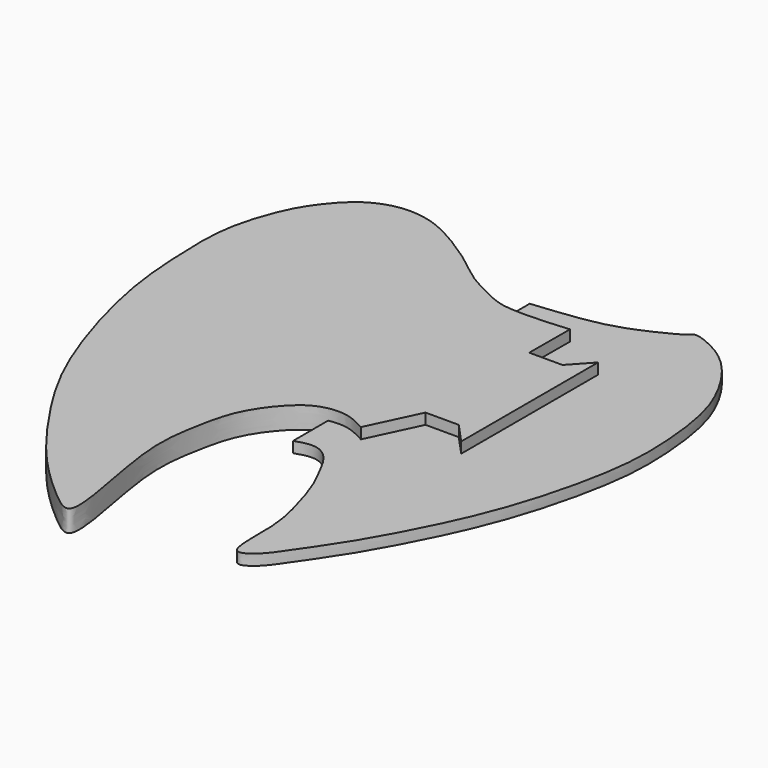
from build123d import *

# Parameters (mm, degrees)
F2_DEPTH = 60
F3_DEPTH = 30


with BuildPart() as f2:
    # F0 (on Top) → F2 (new body)
    with BuildSketch(Plane.XY):
        with BuildLine():
            add(Edge.make_bspline(
                [(131.964340806, -83.234205842), (112.4538179303, -72.6751942263), (73.885742882, -51.802316804), (6.6573498636, -58.2141301705), (-46.4500485441, -87.8764421769), (-125.7671283838, -184.7009892826), (-150.753615895, -312.3758108425), (-176.5027036894, -463.2075093139), (-81.9456959989, -821.4126293537), (-189.6099517072, -740.4886502482), (-314.0159435827, -624.6397739889), (-433.218377131, -459.6482344116), (-564.0125904776, -251.6722391321), (-669.9347276011, 101.2110734438), (-680.0971148701, 309.8933685202), (-684.623487114, 464.8610065534), (-633.8892927829, 612.9442668309), (-589.0316859487, 680.1379113439), (-530.4831886517, 746.0433494352), (-445.9428756901, 779.6145410921), (-355.0177935995, 771.0310110749), (-270.0585967672, 728.5553661642), (-170.6298828838, 662.440048789), (-120.1161795657, 615.3442727908), (-25.9684608204, 567.6027983822), (37.9641117324, 542.8716075743), (198.1576285988, 556.9305593796), (199.2047280073, 557.3984384537)],
                knots=[0, 0, 0, 0, 0.0284473785, 0.0562343017, 0.0833554414, 0.1218422025, 0.1608429216, 0.2080108985, 0.268200819, 0.2954073655, 0.3428264366, 0.3928116183, 0.4484804628, 0.5159415127, 0.5669113925, 0.6104524856, 0.6536826005, 0.6853450241, 0.7176649222, 0.7506548505, 0.7835002115, 0.8181411331, 0.8561854202, 0.8860663083, 0.9204959736, 0.9537537051, 0.9959928607, 0.9959928607, 0.9959928607, 0.9959928607], degree=3))
            Line((131.964340806, -83.234205842), (198.606202998, 57.378873229))
            Line((198.606202998, 57.378873229), (290.9095287323, 57.378873229))
            Line((290.9095287323, 57.378873229), (343.5277044773, 0))
            Line((343.5277044773, 0), (343.5277044773, 474.1864259603))
            Line((343.5277044773, 474.1864259603), (290.9095287323, 416.8075527312))
            Line((290.9095287323, 416.8075527312), (198.606202998, 416.8075527312))
            Line((198.606202998, 416.8075527312), (199.2047280073, 557.3984384537))
        make_face()
    extrude(amount=F2_DEPTH)

    # F1 (on Top) → F3 (join)
    with BuildSketch(Plane.XY):
        with BuildLine():
            Line((19.9452415109, 641.7627334595), (21.7786151916, -180.4992258549))
            add(Edge.make_bspline(
                [(21.7786151916, -180.4992258549), (31.2222558615, -177.2879187469), (50.9015697622, -170.5959741021), (89.3621517005, -169.5033895879), (128.4094116449, -202.0526555629), (156.3968814778, -258.858654579), (188.8164116545, -319.6990727343), (226.1285735268, -443.8866176084), (240.3894674181, -530.7085325997), (231.2640191741, -681.5596012107), (295.2267779567, -642.8167081608), (330.0615725395, -593.96734621), (399.4234817804, -493.0324326547), (451.6935825017, -406.9120486777), (551.113629486, -215.1607208755), (615.577981555, -19.691129658), (652.6698182286, 163.3624028905), (657.0150289474, 287.5477368073), (644.5556818748, 427.3078052831), (615.723904699, 541.5703928589), (543.9989786181, 664.0431548537), (466.3552314687, 729.1406287211), (389.2240786804, 757.8258506854), (382.7784583141, 742.9975025386), (341.0077761174, 719.8448377409), (266.4166670863, 684.6625269007), (178.8171755833, 657.5172915552), (77.6544977528, 647.4854801197), (19.9452415109, 641.7627334595)],
                knots=[0, 0, 0, 0, 0.0220214693, 0.0458898661, 0.0734351689, 0.104752901, 0.1383532975, 0.182741534, 0.2236979432, 0.2665344642, 0.2920417616, 0.324383823, 0.3676201747, 0.4084708447, 0.4663798887, 0.5250056875, 0.5788675544, 0.6234317756, 0.6700015203, 0.7136793644, 0.7604947422, 0.8020837916, 0.8352216866, 0.8481187852, 0.8745867491, 0.9110794569, 0.9492743913, 1, 1, 1, 1], degree=3))
        make_face()
    extrude(amount=F3_DEPTH)


solid = f2.part
